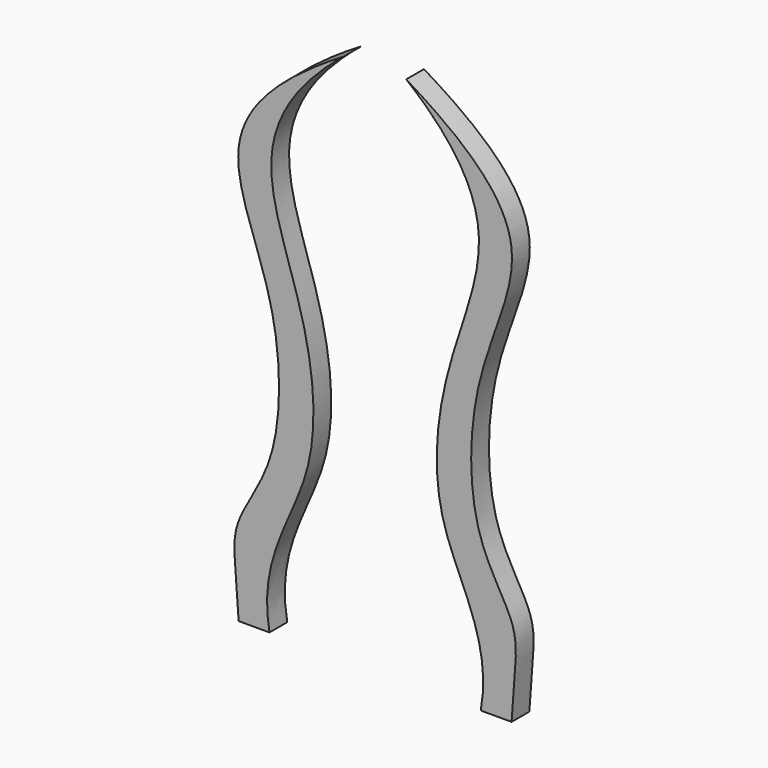
from build123d import *

# Parameters (mm, degrees)
F1_DEPTH = 2.794


with BuildPart() as f1:
    # F0 (on Front) → F1 (new body)
    with BuildSketch(Plane.XZ):
        with BuildLine():
            Line((-17.1470995992, 0), (-13.2729781369, 0))
            add(Edge.make_bspline(
                [(-13.2729781369, 0), (-14.7617488311, 8.0273460218), (-6.266723365, 18.1002777016), (-8.4392764167, 37.0580167787), (-15.6691671711, 52.831481109), (-9.8540153927, 61.9756716194), (-3.9102635346, 66.7752623558)],
                knots=[0, 0, 0, 0, 0.2643594665, 0.5163629287, 0.7535337292, 1, 1, 1, 1], degree=3))
            add(Edge.make_bspline(
                [(-17.1470995992, 0), (-17.4685056889, 5.8185726086), (-18.6973954541, 10.4063652233), (-11.6092103302, 19.041851785), (-11.7358059234, 37.3250143033), (-20.7953024008, 53.3917615135), (-11.981183149, 61.8938777319), (-3.9102635346, 66.7752623558)],
                knots=[0, 0, 0, 0, 0.1728207825, 0.3335316962, 0.5563691904, 0.7665207505, 1, 1, 1, 1], degree=3))
        make_face()
    extrude(amount=F1_DEPTH)


with BuildPart() as f1b:
    # F0 (on Front) → F1, piece 2 (new body)
    with BuildSketch(Plane.XZ):
        with BuildLine():
            add(Edge.make_bspline(
                [(13.2729781369, 0), (14.7617488311, 8.0273460218), (6.266723365, 18.1002777016), (8.4392764167, 37.0580167787), (15.6691671711, 52.831481109), (9.8540153927, 61.9756716194), (3.9102635346, 66.7752623558)],
                knots=[0, 0, 0, 0, 0.2643594665, 0.5163629287, 0.7535337292, 1, 1, 1, 1], degree=3))
            Line((13.2729781369, 0), (17.1470995992, 0))
            add(Edge.make_bspline(
                [(17.1470995992, 0), (17.4685056889, 5.8185726086), (18.6973954541, 10.4063652233), (11.6092103302, 19.041851785), (11.7358059234, 37.3250143033), (20.7953024008, 53.3917615135), (11.981183149, 61.8938777319), (3.9102635346, 66.7752623558)],
                knots=[0, 0, 0, 0, 0.1728207825, 0.3335316962, 0.5563691904, 0.7665207505, 1, 1, 1, 1], degree=3))
        make_face()
    extrude(amount=F1_DEPTH)


solid = Compound([f1.part, f1b.part])
